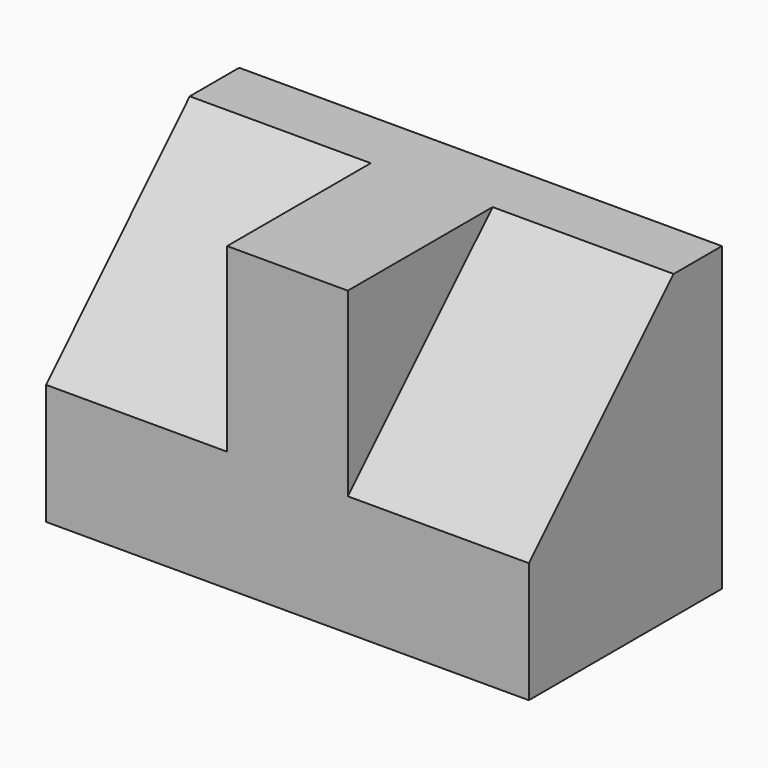
from build123d import *

# Parameters (mm, degrees)
F4_W     = 203.2
F4_H     = 101.6
F5_DEPTH = 127
F1_DEPTH = 76.2
F3_DEPTH = 76.2


with BuildPart() as f5:
    # F4 (on Top) → F5 (new body)
    with BuildSketch(Plane.XY):
        with Locations((45.487865, 3.072385)):
            Rectangle(F4_W, F4_H)
        with Locations((45.487865, 3.072385)):
            Rectangle(F4_W, F4_H)
    extrude(amount=F5_DEPTH)

    # F0 (on face) → F1 (cut)
    with BuildSketch(Plane.YZ.offset(147.087865)):
        Polygon((-47.727615, 50.8), (28.472385, 127), (-47.727615, 127), align=None)
    extrude(amount=-F1_DEPTH, mode=Mode.SUBTRACT)

    # F2 (on face) → F3 (cut)
    with BuildSketch(Plane(origin=(-56.112135, 0, 0), x_dir=(0, -1, 0), z_dir=(-1, 0, 0))):
        Polygon((-27.847318, 127), (47.727615, 50.8), (47.727615, 127), align=None)
    extrude(amount=-F3_DEPTH, mode=Mode.SUBTRACT)


solid = f5.part
